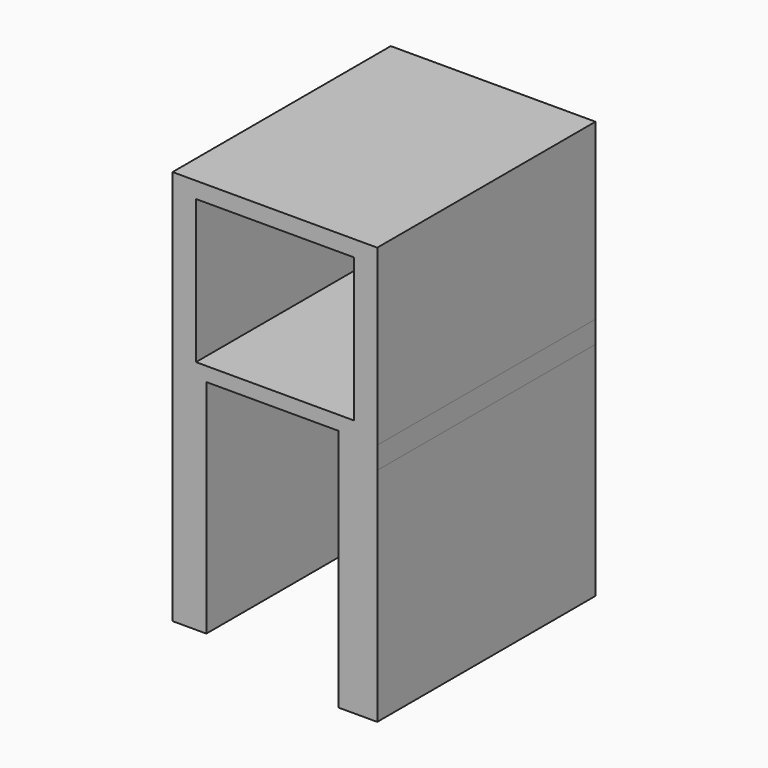
from build123d import *

# Parameters (mm, degrees)
F0_W       = 234.745592
F0_H       = 312.781454
F1_DEPTH   = 199.39
F2_W       = 184.208318
F2_H       = 143.576262
F3_DEPTH   = 283.464
F4_W       = 181.309238
F4_H       = 140.677188
F5_DEPTH   = 248.158
F6_DEPTH   = 270.002
F7_W       = 181.055784
F7_H       = 164.668828
F8_DEPTH   = 273.05
F10_DEPTH  = 254
F11_W      = 44.579953
F11_H      = 312.781454
F12_DEPTH  = 25.4
F12_FACE_W = 44.579952
F12_FACE_H = 312.781454
F13_DEPTH  = 254


with BuildPart() as f1:
    # F0 (on Top) → F1 (new body)
    with BuildSketch(Plane.XY):
        Rectangle(F0_W, F0_H)
    extrude(amount=F1_DEPTH)

    # F2 (on face) → F3 (join)
    with BuildSketch(Plane.XZ.offset(156.390727)):
        with Locations((0, 86.327426)):
            Rectangle(F2_W, F2_H)
    extrude(amount=-F3_DEPTH)

    # F4 (on face) → F5 (join)
    with BuildSketch(Plane.XZ.offset(156.390727)):
        with Locations((0, 94.606221)):
            Rectangle(F4_W, F4_H)
    extrude(amount=-F5_DEPTH)

    # F4 (on face) → F6 (join)
    with BuildSketch(Plane.XZ.offset(156.390727)):
        with Locations((0, 94.606221)):
            Rectangle(F4_W, F4_H)
    extrude(amount=-F6_DEPTH)

    # F7 (on face) → F8 (cut)
    with BuildSketch(Plane.XZ.offset(156.390727)):
        with Locations((0, 98.565549)):
            Rectangle(F7_W, F7_H)
    extrude(amount=-F8_DEPTH, mode=Mode.SUBTRACT)

    # F9 (on face) → F10 (join)
    with BuildSketch(Plane(origin=(0, 0, 0), x_dir=(1, 0, 0), z_dir=(0, 0, -1))):
        Polygon((-78.603908, -156.390727), (-78.603908, -125.591993), (-78.603908, 125.591993), (-78.603908, 156.390727), (-117.372796, 156.390727), (-117.372796, -156.390727), align=None)
    extrude(amount=F10_DEPTH)

    # F11 (on face) → F12 (join)
    with BuildSketch(Plane(origin=(0, 0, 0), x_dir=(1, 0, 0), z_dir=(0, 0, -1))):
        with Locations((95.082819, 0)):
            Rectangle(F11_W, F11_H)
    extrude(amount=F12_DEPTH)

    # F12_face (on face) → F13 (join)
    with BuildSketch(Plane(origin=(95.082819, 0, -25.4), x_dir=(1, 0, 0), z_dir=(0, 0, -1))):
        Rectangle(F12_FACE_W, F12_FACE_H)
    extrude(amount=F13_DEPTH)


solid = f1.part
